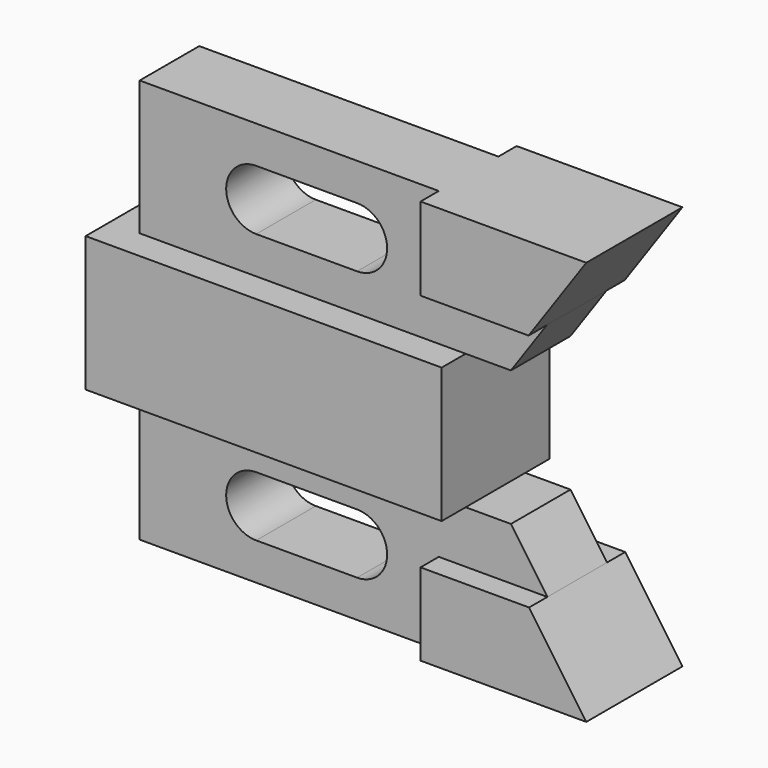
from build123d import *

# Parameters (mm, degrees)
F1_DEPTH = 14.224
F2_DEPTH = 7.874
F3_DEPTH = 12.7


with BuildPart() as f1:
    # F0 (on Front) → F1 (new body, symmetric)
    with BuildSketch(Plane.XZ):
        Polygon((22.958146, 14.2875), (-45.974, 14.2875), (-52.324, 14.2875), (-52.324, -14.2875), (-45.974, -14.2875), (22.958146, -14.2875), align=None)
    extrude(amount=F1_DEPTH, both=True)

    # F0 (on Front) → F2 (join, symmetric)
    with BuildSketch(Plane.XZ):
        Polygon((17.272, 25.2095), (17.272, 42.7355), (-45.974, 42.7355), (-45.974, 14.2875), (22.958146, 14.2875), (32.52297, 14.2875), (40.125151, 25.2095), align=None)
        with BuildLine():
            Line((0, 22.1615), (-21.336, 22.1615))
            ThreePointArc((-21.336, 22.1615), (-27.686, 28.5115), (-21.336, 34.8615))
            Line((-21.336, 34.8615), (0, 34.8615))
            ThreePointArc((0, 34.8615), (6.35, 28.5115), (0, 22.1615))
        make_face(mode=Mode.SUBTRACT)
        Polygon((32.52297, -14.2875), (22.958146, -14.2875), (-45.974, -14.2875), (-45.974, -42.7355), (17.272, -42.7355), (17.272, -25.365404), (40.233667, -25.365404), align=None)
        with BuildLine():
            Line((0, -34.8615), (-21.336, -34.8615))
            ThreePointArc((-21.336, -34.8615), (-27.686, -28.5115), (-21.336, -22.1615))
            Line((-21.336, -22.1615), (0, -22.1615))
            ThreePointArc((0, -22.1615), (6.35, -28.5115), (0, -34.8615))
        make_face(mode=Mode.SUBTRACT)
    extrude(amount=F2_DEPTH, both=True)

    # F0 (on Front) → F3 (join, symmetric)
    with BuildSketch(Plane.XZ):
        Polygon((40.125151, 25.2095), (52.324, 42.7355), (17.272, 42.7355), (17.272, 25.2095), align=None)
        Polygon((52.324, -42.7355), (40.233667, -25.365404), (17.272, -25.365404), (17.272, -42.7355), align=None)
    extrude(amount=F3_DEPTH, both=True)


solid = f1.part
